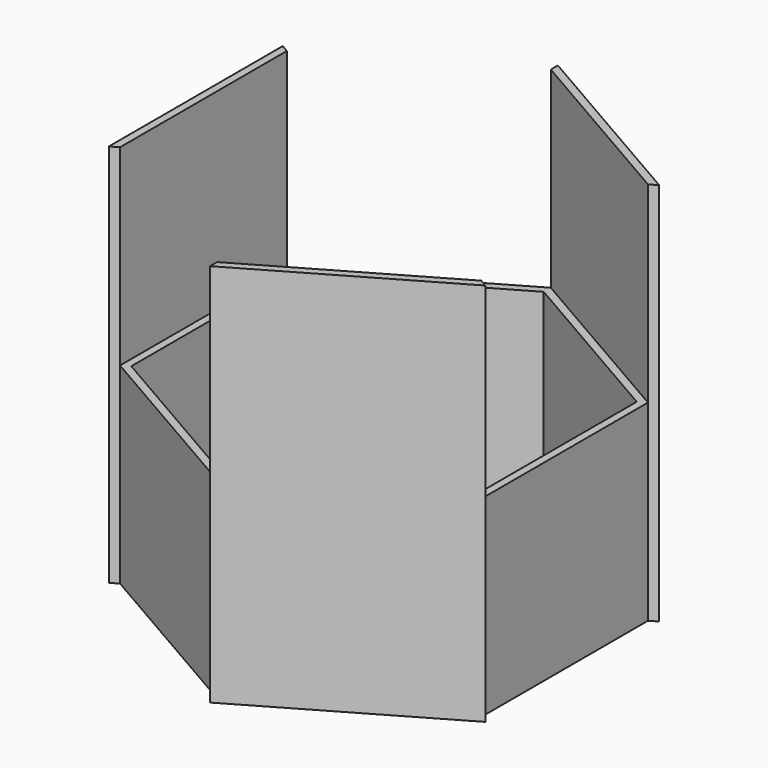
from build123d import *

# Parameters (mm, degrees)
F1_DEPTH = 50
F3_DEPTH = 50.001
F5_DEPTH = 50


with BuildPart() as f1:
    # F0 (on Top) → F1 (new body)
    with BuildSketch(Plane.XY):
        Polygon((-49, 28.290163), (-49, -28.290163), (0, -56.580326), (49, -28.290163), (49, 28.290163), (0, 56.580326), align=None)
        Polygon((0, -51.961524), (-45, -25.980762), (-45, 25.980762), (0, 51.961524), (45, 25.980762), (45, -25.980762), align=None, mode=Mode.SUBTRACT)
    extrude(amount=F1_DEPTH)

    # F2 (on face) → F3 (cut, through all)
    with BuildSketch(Plane.XY.offset(50)):
        Polygon((0, 56.580326), (-49, 28.290163), (-47, 27.135463), (0, 54.270925), align=None)
        Polygon((49, -28.290163), (49, 28.290163), (47, 27.135463), (47, -27.135463), align=None)
        Polygon((-47, -27.135463), (-49, -28.290163), (0, -56.580326), (0, -54.270925), align=None)
    extrude(amount=-F3_DEPTH, mode=Mode.SUBTRACT)

    # F4 (on face) → F5 (join)
    with BuildSketch(Plane.XY.offset(50)):
        Polygon((-47, 27.135463), (-49, 28.290163), (-49, -28.290163), (-47, -27.135463), align=None)
        Polygon((49, 28.290163), (0, 56.580326), (0, 54.270925), (47, 27.135463), align=None)
        Polygon((0, -54.270925), (0, -56.580326), (49, -28.290163), (47, -27.135463), align=None)
    extrude(amount=F5_DEPTH)


solid = f1.part
